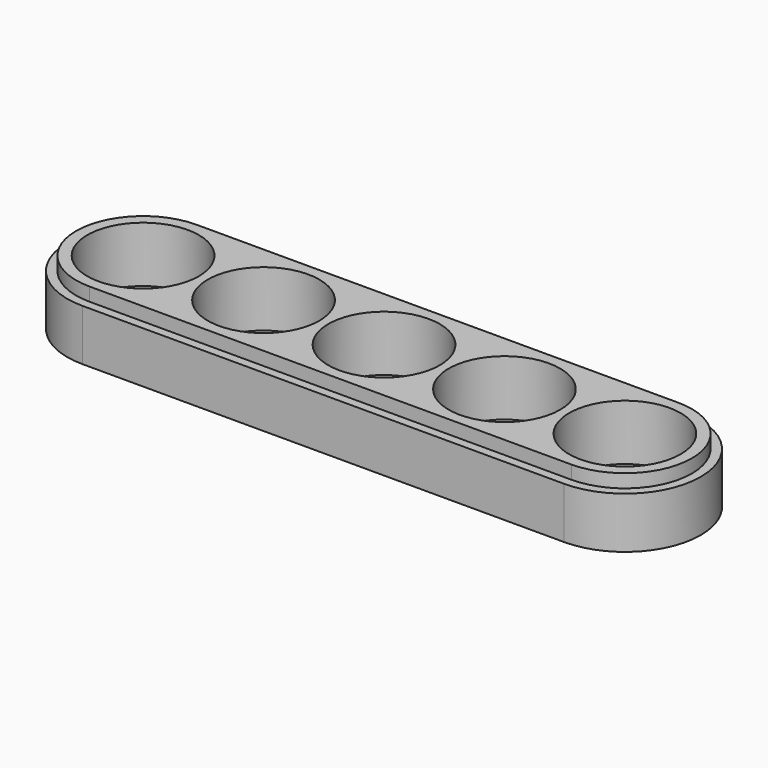
from build123d import *

# Parameters (mm, degrees)
F1_DEPTH = 11.5
F3_DEPTH = 3
F4_R     = 12.5
F5_DEPTH = 12.5


with BuildPart() as f1:
    # F0 (on Top) → F1 (new body)
    with BuildSketch(Plane.XY):
        with BuildLine():
            Line((52.032723, 18.360732), (-55.967277, 18.360732))
            ThreePointArc((-55.967277, 18.360732), (-72.967277, 1.360732), (-55.967277, -15.639268))
            Line((-55.967277, -15.639268), (52.032723, -15.639268))
            ThreePointArc((52.032723, -15.639268), (69.032723, 1.360732), (52.032723, 18.360732))
        make_face()
    extrude(amount=F1_DEPTH)

    # F2 (on face) → F3 (join)
    with BuildSketch(Plane.XY.offset(11.5)):
        with BuildLine():
            ThreePointArc((52.032723, -13.639268), (67.032723, 1.360732), (52.032723, 16.360732))
            Line((52.032723, 16.360732), (-55.967277, 16.360732))
            ThreePointArc((-55.967277, 16.360732), (-70.967277, 1.360732), (-55.967277, -13.639268))
            Line((-55.967277, -13.639268), (52.032723, -13.639268))
        make_face()
    extrude(amount=F3_DEPTH)

    # F4 (on face) → F5 (cut)
    with BuildSketch(Plane.XY.offset(14.5)):
        with Locations((-55.967277, 1.360732)):
            Circle(F4_R)
        with Locations((-28.967277, 1.360732)):
            Circle(F4_R)
        with Locations((-1.967277, 1.360732)):
            Circle(F4_R)
        with Locations((25.032723, 1.360732)):
            Circle(F4_R)
        with Locations((52.032723, 1.360732)):
            Circle(F4_R)
    extrude(amount=-F5_DEPTH, mode=Mode.SUBTRACT)


solid = f1.part
